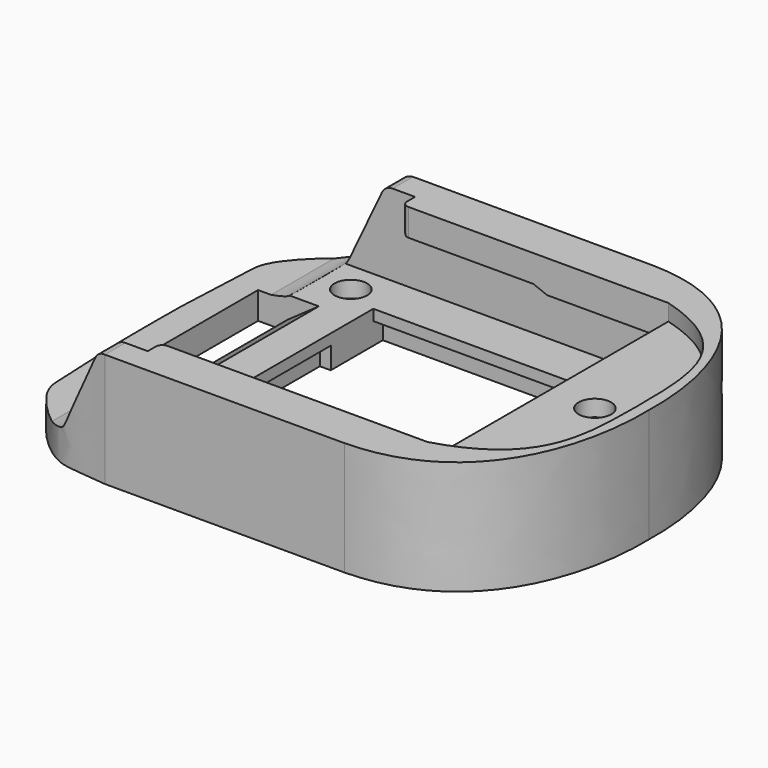
from build123d import *

# Parameters (mm, degrees)
SKETCH009_R     = 1.75
PAD001_DEPTH    = 21
POCKET008_DEPTH = 35.5010001
POCKET009_DEPTH = 15
POCKET010_DEPTH = 18
SKETCH013_W     = 2
SKETCH013_H     = 12.5
POCKET011_DEPTH = 4
POCKET012_DEPTH = 3
POCKET013_DEPTH = 3.05
POCKET017_DEPTH = 3
SKETCH021_R     = 3
POCKET018_DEPTH = 3


with BuildPart() as part:
    # Sketch009 → Pad001 (new body)
    with BuildSketch(Plane.XY):
        with BuildLine():
            Line((11, 0), (23.3, 0))
            Line((23.3, 0), (23.3, 22.3))
            Line((23.3, 22.3), (59.9, 22.3))
            Line((59.9, 22.3), (59.9, 10.55))
            Line((59.9, 10.55), (72.15, 10.55))
            Line((72.15, 10.55), (72.15, 0))
            Line((72.15, 0), (80.25, 0))
            ThreePointArc((80.25, 0), (82, 1.75), (83.75, 0))
            Line((83.75, 0), (92, 0))
            add(Edge.make_bspline(
                [(92, 0), (92.391037, 11.810127), (88.126587, 35.076866), (64.2, 35.5)],
                knots=[0, 0, 0, 0, 1, 1, 1, 1], degree=3))
            Line((64.2, 35.5), (20.1, 35.5))
            add(Edge.make_bspline(
                [(0.75, 22.55), (0.790433, 24.50555), (2.8995135699, 28.3383927733), (10.6468681476, 35.231617337), (14.5053016695, 34.8194742751), (20.1, 35.5)],
                knots=[0, 0, 0, 0, 0.3333333333, 0.6666666667, 1, 1, 1, 1], degree=3))
            Line((0.75, 22.55), (0.05, 7.2))
            ThreePointArc((0.05, 7.2), (0.0125001507, 3.6000868045), (0, 0))
            Line((0, 0), (5.5, 0))
            Line((5.5, 0), (5.5, 18))
            Line((5.5, 18), (11, 18))
            Line((11, 18), (11, 0))
        make_face()
        with Locations((17, 25)):
            Circle(SKETCH009_R, mode=Mode.SUBTRACT)
    extrude(amount=PAD001_DEPTH)

    # Sketch010 (on Face1 of Pad001) → Pocket008 (cut, through all)
    with BuildSketch(Plane.XZ):
        with BuildLine():
            Line((7.9, 5), (0, 5))
            Line((0, 5), (0, 21))
            Line((0, 21), (20.05, 21))
            ThreePointArc((20.05, 21), (18.8992105015, 20.6660901767), (18.1058720895, 19.7680777024))
            Line((18.1058720895, 19.7680777024), (12.1, 7.05))
            add(Edge.make_bspline(
                [(12.1, 7.05), (11.7904723155, 6.5431449633), (11.5915441331, 5.8310211118), (9.732416, 5.34755), (7.9, 5)],
                knots=[0, 0, 0, 0, 0.5, 1, 1, 1, 1], degree=3))
        make_face()
    extrude(amount=-POCKET008_DEPTH, mode=Mode.SUBTRACT)

    # Sketch011 (on Face4 of Pocket008) → Pocket009 (cut)
    with BuildSketch(Plane.XY.offset(21)):
        with BuildLine():
            Line((11, 30.8), (11, 0))
            Line((11, 0), (23.3, 0))
            Line((23.3, 0), (23.3, 22.3))
            Line((23.3, 22.3), (59.9, 22.3))
            Line((59.9, 22.3), (59.9, 10.55))
            Line((59.9, 10.55), (72.15, 10.55))
            Line((72.15, 10.55), (72.15, 0))
            Line((72.15, 0), (73.35, 0))
            Line((73.35, 27.75), (73.35, 0))
            Line((73.35, 27.75), (25.4, 27.75))
            ThreePointArc((24.2, 28.95), (24.5514718626, 28.1014718626), (25.4, 27.75))
            Line((24.2, 28.95), (24.2, 30.8))
            Line((24.2, 30.8), (11, 30.8))
        make_face()
    extrude(amount=-POCKET009_DEPTH, mode=Mode.SUBTRACT)

    # Sketch012 (on Face1 of Pocket009) → Pocket010 (cut)
    with BuildSketch(Plane.XZ):
        Polygon((16.7, 6), (11, 6), (11, 2), align=None)
    extrude(amount=-POCKET010_DEPTH, mode=Mode.SUBTRACT)

    # Sketch013 (on Face2 of Pocket010) → Pocket011 (cut)
    with BuildSketch(Plane(origin=(0, 0, 0), x_dir=(1, 0, 0), z_dir=(0, 0, -1))):
        Polygon((72.15, -10.55), (59.9, -10.55), (59.9, -22.3), (23.3, -22.3), (23.3, -24.5), (62.3, -24.5), (62.3, -12.55), (75.35, -12.55), (75.35, 0), (72.15, 0), align=None)
        with Locations((22.3, -6.25)):
            Rectangle(SKETCH013_W, SKETCH013_H)
    extrude(amount=-POCKET011_DEPTH, mode=Mode.SUBTRACT)

    # Sketch014 (on Face36 of Pocket011) → Pocket012 (cut)
    with BuildSketch(Plane.XY.offset(21)):
        with BuildLine():
            Line((73.35, 27.75), (73.35, 0))
            Line((73.35, 0), (89.95, 0))
            add(Edge.make_bspline(
                [(89.95, 0), (89.796112, 11.583797), (90.425743, 22.81332), (73.35, 27.75)],
                knots=[0, 0, 0, 0, 1, 1, 1, 1], degree=3))
        make_face()
    extrude(amount=-POCKET012_DEPTH, mode=Mode.SUBTRACT)

    # Sketch015 (on Face29 of Pocket012) → Pocket013 (cut)
    with BuildSketch(Plane.XZ.offset(-27.75)):
        Polygon((24.2, 6), (73.35, 6), (73.35, 15), (51, 15), (48.45, 16), (25, 16), (24.2, 16.4), align=None)
    extrude(amount=-POCKET013_DEPTH, mode=Mode.SUBTRACT)

    # Sketch020 (on Face36 of Pocket013) → Pocket017 (cut)
    with BuildSketch(Plane.XY.offset(18)):
        with BuildLine():
            ThreePointArc((85, 0), (82, 3), (79, 0))
            Line((79, 0), (85, 0))
        make_face()
    extrude(amount=-POCKET017_DEPTH, mode=Mode.SUBTRACT)

    # Sketch021 (on Face6 of Pocket017) → Pocket018 (cut)
    with BuildSketch(Plane.XY.offset(6)):
        with Locations((17, 25)):
            Circle(SKETCH021_R)
    extrude(amount=-POCKET018_DEPTH, mode=Mode.SUBTRACT)

    # Mirrored: part across XZ


with BuildPart() as part_1:
    add(part.part)
    add(part.part.mirror(Plane.XZ))


solid = part_1.part
